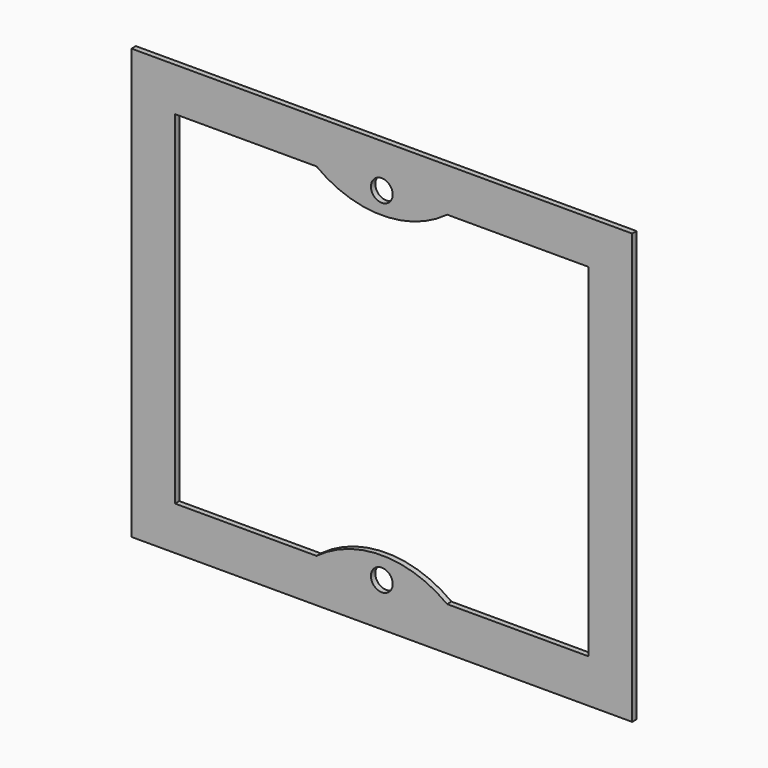
from build123d import *

# Parameters (mm, degrees)
SKETCH002_W  = 584.2
SKETCH002_H  = 501.65
SKETCH002_R  = 12.7
PAD008_DEPTH = 6.35


with BuildPart() as part:
    # Sketch002 → Pad008 (new body)
    with BuildSketch(Plane(origin=(0, 304.8, 914.4), x_dir=(1, 0, 0), z_dir=(0, -1, 0))):
        Rectangle(SKETCH002_W, SKETCH002_H)
        with Locations((0, 200.025)):
            Circle(SKETCH002_R, mode=Mode.SUBTRACT)
        with Locations((0, -200.025)):
            Circle(SKETCH002_R, mode=Mode.SUBTRACT)
        with BuildLine():
            Line((-241.3, 200.025), (-241.3, -200.025))
            Line((-241.3, -200.025), (-76.2, -200.025))
            ThreePointArc((76.2, -200.025), (0, -174.625), (-76.2, -200.025))
            Line((241.3, -200.025), (76.2, -200.025))
            Line((241.3, 200.025), (241.3, -200.025))
            Line((241.3, 200.025), (76.2, 200.025))
            ThreePointArc((-76.2, 200.025), (0, 174.625), (76.2, 200.025))
            Line((-241.3, 200.025), (-76.2, 200.025))
        make_face(mode=Mode.SUBTRACT)
    extrude(amount=PAD008_DEPTH)


solid = part.part
